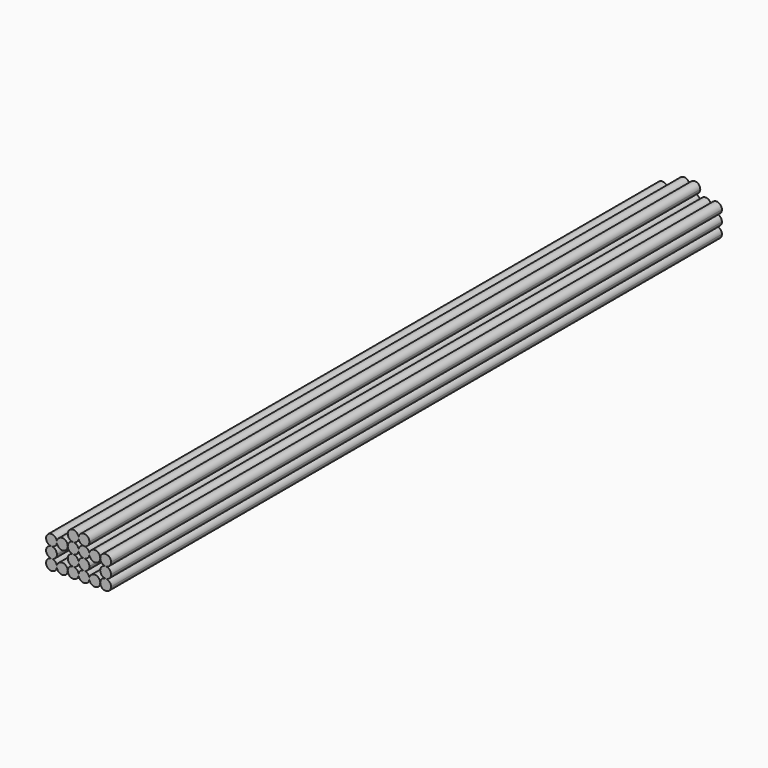
from build123d import *

# Parameters (mm, degrees)
F1_DEPTH = 358.14


with BuildPart() as f1:
    # F0 (on Front) → F1 (new body)
    with BuildSketch(Plane.XZ):
        with BuildLine():
            ThreePointArc((7.62, 0), (5.08, 2.54), (2.54, 0))
            ThreePointArc((2.54, 0), (5.08, -2.54), (7.62, 0))
        make_face()
        with BuildLine():
            ThreePointArc((0, -2.54), (1.796051, -1.796051), (2.54, 0))
            ThreePointArc((2.54, 0), (-1.796051, 1.796051), (0, -2.54))
        make_face()
        with BuildLine():
            ThreePointArc((2.54, -5.08), (1.796051, -3.283949), (0, -2.54))
            ThreePointArc((0, -2.54), (-2.54, -5.08), (0, -7.62))
            ThreePointArc((0, -7.62), (1.796051, -6.876051), (2.54, -5.08))
        make_face()
        with BuildLine():
            ThreePointArc((2.54, -10.16), (1.796051, -8.363949), (0, -7.62))
            ThreePointArc((0, -7.62), (-1.796051, -11.956051), (2.54, -10.16))
        make_face()
        with BuildLine():
            ThreePointArc((7.62, -10.16), (5.08, -7.62), (2.54, -10.16))
            ThreePointArc((2.54, -10.16), (5.08, -12.7), (7.62, -10.16))
        make_face()
        with BuildLine():
            ThreePointArc((12.7, -10.16), (11.956051, -8.363949), (10.16, -7.62))
            ThreePointArc((10.16, -7.62), (8.363949, -8.363949), (7.62, -10.16))
            ThreePointArc((7.62, -10.16), (10.16, -12.7), (12.7, -10.16))
        make_face()
        with BuildLine():
            ThreePointArc((12.7, -5.08), (11.956051, -3.283949), (10.16, -2.54))
            ThreePointArc((10.16, -2.54), (7.62, -5.08), (10.16, -7.62))
            ThreePointArc((10.16, -7.62), (11.956051, -6.876051), (12.7, -5.08))
        make_face()
        with BuildLine():
            ThreePointArc((10.16, 2.54), (8.363949, 1.796051), (7.62, 0))
            ThreePointArc((7.62, 0), (8.363949, -1.796051), (10.16, -2.54))
            ThreePointArc((10.16, -2.54), (11.956051, -1.796051), (12.7, 0))
            ThreePointArc((12.7, 0), (11.956051, 1.796051), (10.16, 2.54))
        make_face()
        with BuildLine():
            ThreePointArc((12.7, 5.08), (8.363949, 6.876051), (10.16, 2.54))
            ThreePointArc((10.16, 2.54), (11.956051, 3.283949), (12.7, 5.08))
        make_face()
        with BuildLine():
            ThreePointArc((17.78, 5.08), (15.24, 7.62), (12.7, 5.08))
            ThreePointArc((12.7, 5.08), (13.443949, 3.283949), (15.24, 2.54))
            ThreePointArc((15.24, 2.54), (17.036051, 3.283949), (17.78, 5.08))
        make_face()
        with BuildLine():
            ThreePointArc((15.24, 2.54), (13.443949, 1.796051), (12.7, 0))
            ThreePointArc((12.7, 0), (13.443949, -1.796051), (15.24, -2.54))
            ThreePointArc((15.24, -2.54), (17.036051, -1.796051), (17.78, 0))
            ThreePointArc((17.78, 0), (17.036051, 1.796051), (15.24, 2.54))
        make_face()
        with BuildLine():
            ThreePointArc((15.24, -2.54), (13.443949, -3.283949), (12.7, -5.08))
            ThreePointArc((12.7, -5.08), (13.443949, -6.876051), (15.24, -7.62))
            ThreePointArc((15.24, -7.62), (17.036051, -6.876051), (17.78, -5.08))
            ThreePointArc((17.78, -5.08), (17.036051, -3.283949), (15.24, -2.54))
        make_face()
        with BuildLine():
            ThreePointArc((17.78, -10.16), (17.036051, -8.363949), (15.24, -7.62))
            ThreePointArc((15.24, -7.62), (13.443949, -8.363949), (12.7, -10.16))
            ThreePointArc((12.7, -10.16), (15.24, -12.7), (17.78, -10.16))
        make_face()
        with BuildLine():
            ThreePointArc((22.86, -10.16), (20.32, -7.62), (17.78, -10.16))
            ThreePointArc((17.78, -10.16), (20.32, -12.7), (22.86, -10.16))
        make_face()
        with BuildLine():
            ThreePointArc((25.4, -7.62), (23.603949, -8.363949), (22.86, -10.16))
            ThreePointArc((22.86, -10.16), (25.4, -12.7), (27.94, -10.16))
            ThreePointArc((27.94, -10.16), (27.196051, -8.363949), (25.4, -7.62))
        make_face()
        with BuildLine():
            ThreePointArc((27.94, -5.08), (27.196051, -3.283949), (25.4, -2.54))
            ThreePointArc((25.4, -2.54), (22.86, -5.08), (25.4, -7.62))
            ThreePointArc((25.4, -7.62), (27.196051, -6.876051), (27.94, -5.08))
        make_face()
        with BuildLine():
            ThreePointArc((27.94, 0), (25.4, 2.54), (22.86, 0))
            ThreePointArc((22.86, 0), (23.603949, -1.796051), (25.4, -2.54))
            ThreePointArc((25.4, -2.54), (27.196051, -1.796051), (27.94, 0))
        make_face()
        with BuildLine():
            ThreePointArc((22.86, 0), (20.32, 2.54), (17.78, 0))
            ThreePointArc((17.78, 0), (20.32, -2.54), (22.86, 0))
        make_face()
    extrude(amount=F1_DEPTH)


solid = f1.part
